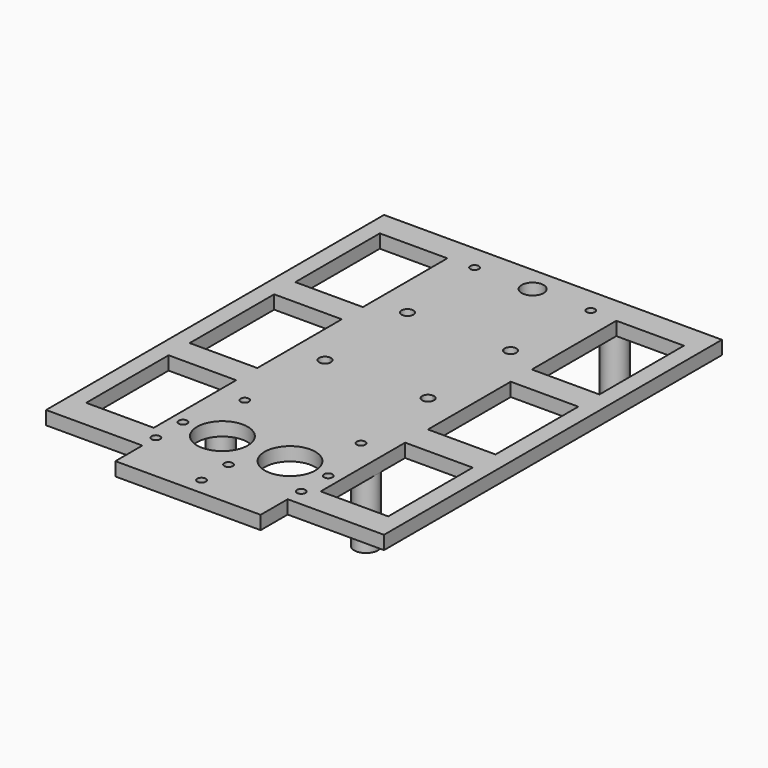
from build123d import *

# Parameters (mm, degrees)
F4_R            = 3.5
F5_DEPTH        = 4
F6_D            = 2.5
F6_CBORE_D      = 4.5
F6_CBORE_DEPTH  = 2
F7_DEPTH        = 20
F9_D            = 2.9
F9_DEPTH        = 18
F9_CSINK_D      = 4
F9_CSINK_ANGLE  = 90
F9_TIP          = 0.8712478976
F11_D           = 2.9
F11_DEPTH       = 18
F11_CSINK_D     = 4
F11_CSINK_ANGLE = 90
F11_TIP         = 0.8712478976
F13_D           = 2.9
F13_DEPTH       = 18
F13_CSINK_D     = 4
F13_CSINK_ANGLE = 90
F13_TIP         = 0.8712478976
F15_D           = 2.9
F15_DEPTH       = 18
F15_CSINK_D     = 4
F15_CSINK_ANGLE = 90
F15_TIP         = 0.8712478976
F16_DEPTH       = 25
F18_DEPTH       = 25
F19_DEPTH       = 25
F20_W           = 20
F20_H           = 30.4843550548
F20_H_2         = 31.25
F20_H_3         = 30.620081059
F21_DEPTH       = 4
F17_R           = 7.5
F22_DEPTH       = 4
F23_W           = 43
F23_H           = 4
F24_DEPTH       = 10
F26_D           = 2.5
F26_DEPTH       = 15
F26_CSINK_D     = 4
F26_CSINK_ANGLE = 90
F26_TIP         = 0.7510757738
F27_D           = 2.5
F27_DEPTH       = 15
F27_CSINK_D     = 4
F27_CSINK_ANGLE = 90
F27_TIP         = 0.7510757738


with BuildPart() as f5:
    # F4 (on Top) → F5 (new body)
    with BuildSketch(Plane.XY):
        Polygon((27.5709562153, 77.495081059), (-22.4290437847, 77.495081059), (-22.4290437847, 73.495081059), (-22.4290437847, -18.5049188996), (-22.4290437847, -22.504918941), (27.5709562153, -22.504918941), (27.5709562153, -18.504918941), (27.5709562153, 73.495081059), align=None)
        with BuildLine():
            ThreePointArc((-15.4290437847, -18.504918941), (-18.9290438054, -22.004918941), (-22.4290437847, -18.5049188996))
            ThreePointArc((-22.4290437847, -18.5049188996), (-18.9290437641, -15.004918941), (-15.4290437847, -18.504918941))
        make_face(mode=Mode.SUBTRACT)
        with Locations((24.0709562153, -18.504918941)):
            Circle(F4_R, mode=Mode.SUBTRACT)
        with BuildLine():
            Line((-3.6008084906, 42.745081059), (-14.6290437847, 69.995081059))
            Line((-14.6290437847, 69.995081059), (-0.6790437847, 69.995081059))
            ThreePointArc((-0.6790437847, 69.995081059), (2.5709562153, 73.245081059), (5.8209562153, 69.995081059))
            Line((5.8209562153, 69.995081059), (19.7709562153, 69.995081059))
            Line((19.7709562153, 69.995081059), (8.7427209211, 42.745081059))
            Line((8.7427209211, 42.745081059), (16.0709562153, 42.745081059))
            ThreePointArc((16.0709562153, 42.745081059), (17.8209562153, 44.495081059), (19.5709562153, 42.745081059))
            ThreePointArc((19.5709562153, 42.745081059), (19.0583930823, 41.507644192), (17.8209562153, 40.995081059))
            Line((17.8209562153, 40.995081059), (17.8209562153, 13.995081059))
            ThreePointArc((17.8209562153, 13.995081059), (19.0583930823, 13.4825179261), (19.5709562153, 12.245081059))
            ThreePointArc((19.5709562153, 12.245081059), (17.8209562153, 10.495081059), (16.0709562153, 12.245081059))
            Line((16.0709562153, 12.245081059), (8.7427209211, 12.245081059))
            Line((8.7427209211, 12.245081059), (-3.6008084906, 12.245081059))
            Line((-3.6008084906, 12.245081059), (-10.9290437847, 12.245081059))
            ThreePointArc((-10.9290437847, 12.245081059), (-13.9164806518, 11.007644192), (-12.6790437847, 13.995081059))
            Line((-12.6790437847, 13.995081059), (-12.6790437847, 40.995081059))
            ThreePointArc((-12.6790437847, 40.995081059), (-13.9164806518, 43.9825179261), (-10.9290437847, 42.745081059))
            Line((-10.9290437847, 42.745081059), (-3.6008084906, 42.745081059))
        make_face(mode=Mode.SUBTRACT)
        with BuildLine():
            ThreePointArc((-15.4290437847, 73.495081059), (-18.9290437847, 69.995081059), (-22.4290437847, 73.495081059))
            ThreePointArc((-22.4290437847, 73.495081059), (-18.9290437847, 76.995081059), (-15.4290437847, 73.495081059))
        make_face(mode=Mode.SUBTRACT)
        with Locations((24.0709562153, 73.495081059)):
            Circle(F4_R, mode=Mode.SUBTRACT)
        with BuildLine():
            ThreePointArc((-15.4290437847, -18.504918941), (-18.9290437641, -15.004918941), (-22.4290437847, -18.5049188996))
            ThreePointArc((-22.4290437847, -18.5049188996), (-18.9290438054, -22.004918941), (-15.4290437847, -18.504918941))
        make_face()
        with Locations((24.0709562153, -18.504918941)):
            Circle(F4_R)
        with BuildLine():
            ThreePointArc((-15.4290437847, 73.495081059), (-18.9290437847, 76.995081059), (-22.4290437847, 73.495081059))
            ThreePointArc((-22.4290437847, 73.495081059), (-18.9290437847, 69.995081059), (-15.4290437847, 73.495081059))
        make_face()
        with Locations((24.0709562153, 73.495081059)):
            Circle(F4_R)
        with BuildLine():
            Line((8.7427209211, 42.745081059), (2.5709562153, 27.495081059))
            Line((2.5709562153, 27.495081059), (8.7427209211, 12.245081059))
            Line((8.7427209211, 12.245081059), (16.0709562153, 12.245081059))
            ThreePointArc((16.0709562153, 12.245081059), (16.5835193482, 13.4825179261), (17.8209562153, 13.995081059))
            Line((17.8209562153, 13.995081059), (17.8209562153, 40.995081059))
            ThreePointArc((17.8209562153, 40.995081059), (16.5835193482, 41.507644192), (16.0709562153, 42.745081059))
            Line((16.0709562153, 42.745081059), (8.7427209211, 42.745081059))
        make_face()
        with BuildLine():
            Line((2.5709562153, 27.495081059), (-3.6008084906, 42.745081059))
            Line((-3.6008084906, 42.745081059), (-10.9290437847, 42.745081059))
            ThreePointArc((-10.9290437847, 42.745081059), (-11.4416069177, 41.507644192), (-12.6790437847, 40.995081059))
            Line((-12.6790437847, 40.995081059), (-12.6790437847, 13.995081059))
            ThreePointArc((-12.6790437847, 13.995081059), (-11.4416069177, 13.4825179261), (-10.9290437847, 12.245081059))
            Line((-10.9290437847, 12.245081059), (-3.6008084906, 12.245081059))
            Line((-3.6008084906, 12.245081059), (2.5709562153, 27.495081059))
        make_face()
        Polygon((8.7427209211, 42.745081059), (-3.6008084906, 42.745081059), (2.5709562153, 27.495081059), align=None)
        Polygon((8.7427209211, 12.245081059), (2.5709562153, 27.495081059), (-3.6008084906, 12.245081059), align=None)
        with BuildLine():
            Line((-0.6790437847, 69.995081059), (-14.6290437847, 69.995081059))
            Line((-14.6290437847, 69.995081059), (-3.6008084906, 42.745081059))
            Line((-3.6008084906, 42.745081059), (8.7427209211, 42.745081059))
            Line((8.7427209211, 42.745081059), (19.7709562153, 69.995081059))
            Line((19.7709562153, 69.995081059), (5.8209562153, 69.995081059))
            ThreePointArc((5.8209562153, 69.995081059), (2.5709562153, 66.745081059), (-0.6790437847, 69.995081059))
        make_face()
    extrude(amount=F5_DEPTH)

    # F6 (through all)
    with Locations(Plane(origin=(0, 0, 0), x_dir=(1, 0, 0), z_dir=(0, 0, -1))):
        with Locations((19.7709562153, -69.995081059), (19.7709562153, 15.004918941), (-14.6290437847, 15.004918941), (-14.6290437847, -69.995081059)):
            CounterBoreHole(F6_D / 2, F6_CBORE_D / 2, F6_CBORE_DEPTH)

    # F4 (on Top) → F7 (join)
    with BuildSketch(Plane.XY):
        with BuildLine():
            ThreePointArc((-15.4290437847, -18.504918941), (-18.9290437641, -15.004918941), (-22.4290437847, -18.5049188996))
            ThreePointArc((-22.4290437847, -18.5049188996), (-18.9290438054, -22.004918941), (-15.4290437847, -18.504918941))
        make_face()
        with Locations((24.0709562153, -18.504918941)):
            Circle(F4_R)
        with BuildLine():
            ThreePointArc((-15.4290437847, 73.495081059), (-18.9290437847, 76.995081059), (-22.4290437847, 73.495081059))
            ThreePointArc((-22.4290437847, 73.495081059), (-18.9290437847, 69.995081059), (-15.4290437847, 73.495081059))
        make_face()
        with Locations((24.0709562153, 73.495081059)):
            Circle(F4_R)
    extrude(amount=-F7_DEPTH)

    # F9
    with Locations(Plane(origin=(0, 0, -20), x_dir=(1, 0, 0), z_dir=(0, 0, -1))):
        with Locations((-18.9290437847, -73.495081059)):
            CounterSinkHole(F9_D / 2, F9_CSINK_D / 2, depth=F9_DEPTH, counter_sink_angle=F9_CSINK_ANGLE)
            with Locations((0, 0, -(F9_DEPTH + F9_TIP / 2))):  # 118° drill point
                Cone(0, F9_D / 2, F9_TIP, mode=Mode.SUBTRACT)

    # F11
    with Locations(Plane(origin=(0, 0, -20), x_dir=(1, 0, 0), z_dir=(0, 0, -1))):
        with Locations((-18.9290437847, 18.504918941)):
            CounterSinkHole(F11_D / 2, F11_CSINK_D / 2, depth=F11_DEPTH, counter_sink_angle=F11_CSINK_ANGLE)
            with Locations((0, 0, -(F11_DEPTH + F11_TIP / 2))):  # 118° drill point
                Cone(0, F11_D / 2, F11_TIP, mode=Mode.SUBTRACT)

    # F13
    with Locations(Plane(origin=(0, 0, -20), x_dir=(1, 0, 0), z_dir=(0, 0, -1))):
        with Locations((24.0709562153, -73.495081059)):
            CounterSinkHole(F13_D / 2, F13_CSINK_D / 2, depth=F13_DEPTH, counter_sink_angle=F13_CSINK_ANGLE)
            with Locations((0, 0, -(F13_DEPTH + F13_TIP / 2))):  # 118° drill point
                Cone(0, F13_D / 2, F13_TIP, mode=Mode.SUBTRACT)

    # F15
    with Locations(Plane(origin=(0, 0, -20), x_dir=(1, 0, 0), z_dir=(0, 0, -1))):
        with Locations((24.0709562153, 18.504918941)):
            CounterSinkHole(F15_D / 2, F15_CSINK_D / 2, depth=F15_DEPTH, counter_sink_angle=F15_CSINK_ANGLE)
            with Locations((0, 0, -(F15_DEPTH + F15_TIP / 2))):  # 118° drill point
                Cone(0, F15_D / 2, F15_TIP, mode=Mode.SUBTRACT)

    # F16 (add): a face of the model
    f16_faces = [f5.faces().sort_by_distance(p)[0] for p in [
        (2.5709562153, -22.504918941, 2),
    ]]
    extrude(f16_faces, amount=F16_DEPTH)

    # F18 (add): a face of the model
    f18_faces = [f5.faces().sort_by_distance(p)[0] for p in [
        (27.5709562153, 14.995081059, 2),
    ]]
    extrude(f18_faces, amount=F18_DEPTH)

    # F19 (add): a face of the model
    f19_faces = [f5.faces().sort_by_distance(p)[0] for p in [
        (-22.4290437847, 14.995081059, 2),
    ]]
    extrude(f19_faces, amount=F19_DEPTH)

    # F20 (on face) → F21 (cut)
    with BuildSketch(Plane.XY.offset(4)):
        with Locations((-32.4290437847, -23.6845964684)):
            Rectangle(F20_W, F20_H)
        with Locations((-32.4290437847, 14.995081059)):
            Rectangle(F20_W, F20_H_2)
        with Locations((-32.4290437847, 54.057581059)):
            Rectangle(F20_W, F20_H_2)
        with Locations((37.5709562153, 54.057581059)):
            Rectangle(F20_W, F20_H_2)
        with Locations((37.5709562153, 15.3100405295)):
            Rectangle(F20_W, F20_H_3)
        with Locations((37.5709562153, -24.067418941)):
            Rectangle(F20_W, F20_H_2)
    extrude(amount=-F21_DEPTH, mode=Mode.SUBTRACT)

    # F17 (on face) → F22 (cut)
    with BuildSketch(Plane.XY.offset(4)):
        with Locations((-7.4290437847, -32.2756583249)):
            Circle(F17_R)
        with Locations((12.5709562153, -32.2756583249)):
            Circle(F17_R)
    extrude(amount=-F22_DEPTH, mode=Mode.SUBTRACT)

    # F23 (on face) → F24 (join)
    with BuildSketch(Plane.XZ.offset(47.504918941)):
        with Locations((2.5709562153, 2)):
            Rectangle(F23_W, F23_H)
    extrude(amount=F24_DEPTH)

    # F26
    with Locations(Plane(origin=(0, 0, 0), x_dir=(1, 0, 0), z_dir=(0, 0, -1))):
        with Locations((2.5709562153, 52.504918941), (2.5709562153, 42.504918941)):
            CounterSinkHole(F26_D / 2, F26_CSINK_D / 2, depth=F26_DEPTH, counter_sink_angle=F26_CSINK_ANGLE)
            with Locations((0, 0, -(F26_DEPTH + F26_TIP / 2))):  # 118° drill point
                Cone(0, F26_D / 2, F26_TIP, mode=Mode.SUBTRACT)

    # F27
    with Locations(Plane(origin=(0, 0, 0), x_dir=(1, 0, 0), z_dir=(0, 0, -1))):
        with Locations((-18.9290437847, 42.504918941), (-18.9290437847, 32.504918941), (24.0709562153, 32.504918941), (24.0709562153, 42.504918941)):
            CounterSinkHole(F27_D / 2, F27_CSINK_D / 2, depth=F27_DEPTH, counter_sink_angle=F27_CSINK_ANGLE)
            with Locations((0, 0, -(F27_DEPTH + F27_TIP / 2))):  # 118° drill point
                Cone(0, F27_D / 2, F27_TIP, mode=Mode.SUBTRACT)


solid = f5.part
